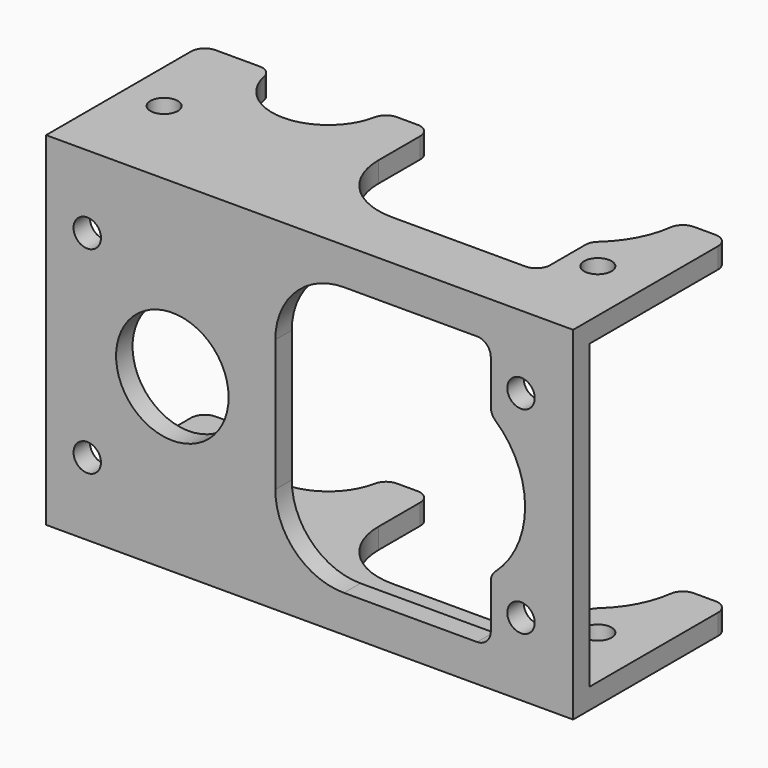
from build123d import *

# Parameters (mm, degrees)
F0_W     = 38.4
F0_H     = 28.4
F0_R     = 1
F0_R_2   = 4.1
F1_DEPTH = 1.5
F2_W     = 38.4
F2_H     = 1.5
F3_DEPTH = 22
F6_W     = 38.4
F6_H     = 14.2
F7_DEPTH = 25.001
F8_R     = 4.1
F8_R_2   = 1
F9_DEPTH = 1.5
F10_R    = 1


with BuildPart() as f1:
    # F0 (on Top) → F1 (new body)
    with BuildSketch(Plane.XY):
        Rectangle(F0_W, F0_H)
        with Locations((-16.2, -7.2)):
            Circle(F0_R, mode=Mode.SUBTRACT)
        with Locations((15.4, -7.2)):
            Circle(F0_R, mode=Mode.SUBTRACT)
        with Locations((-10, 0)):
            Circle(F0_R_2, mode=Mode.SUBTRACT)
        with Locations((-16.2, 7.2)):
            Circle(F0_R, mode=Mode.SUBTRACT)
        with BuildLine():
            ThreePointArc((-2.5, 4.8), (-1.0355339059, 8.3355339059), (2.5, 9.8))
            Line((2.5, 9.8), (12.2, 9.8))
            ThreePointArc((12.2, 9.8), (12.9071067812, 9.5071067812), (13.2, 8.8))
            Line((13.2, 8.8), (13.2, 5.5901699437))
            ThreePointArc((13.2, 5.5901699437), (13.2871290708, 5.1819216533), (13.5333333333, 4.8448139512))
            ThreePointArc((13.5333333333, 4.8448139512), (15.7, 0), (13.5333333333, -4.8448139512))
            ThreePointArc((13.5333333333, -4.8448139512), (13.2871290708, -5.1819216533), (13.2, -5.5901699437))
            Line((13.2, -5.5901699437), (13.2, -8.8))
            ThreePointArc((13.2, -8.8), (12.9071067812, -9.5071067812), (12.2, -9.8))
            Line((12.2, -9.8), (2.5, -9.8))
            ThreePointArc((2.5, -9.8), (-1.0355339059, -8.3355339059), (-2.5, -4.8))
            Line((-2.5, -4.8), (-2.5, 4.8))
        make_face(mode=Mode.SUBTRACT)
        with Locations((15.4, 7.2)):
            Circle(F0_R, mode=Mode.SUBTRACT)
    extrude(amount=F1_DEPTH)

    # F2 (on face) → F3 (join)
    with BuildSketch(Plane(origin=(0, 0, 0), x_dir=(1, 0, 0), z_dir=(0, 0, -1))):
        with Locations((0, 13.45)):
            Rectangle(F2_W, F2_H)
    extrude(amount=F3_DEPTH)

    # F5: F1 across plane


with BuildPart() as f1_1:
    add(f1.part)
    add(f1.part.mirror(Plane.XY.offset(-11)))

    # F6 (on face) → F7 (cut, through all)
    with BuildSketch(Plane(origin=(0, 0, -23.5), x_dir=(1, 0, 0), z_dir=(0, 0, -1))):
        with Locations((0, -7.1)):
            Rectangle(F6_W, F6_H)
    extrude(amount=-F7_DEPTH, mode=Mode.SUBTRACT)

    # F8 (on face) → F9 (cut, through all)
    with BuildSketch(Plane.XZ.offset(14.2)):
        with Locations((-10, -11)):
            Circle(F8_R)
        with Locations((-16.2, -3.8)):
            Circle(F8_R_2)
        with Locations((15.4, -3.8)):
            Circle(F8_R_2)
        with BuildLine():
            Line((12.2, -1.2), (2.5, -1.2))
            ThreePointArc((2.5, -1.2), (-1.0355339059, -2.6644660941), (-2.5, -6.2))
            Line((-2.5, -6.2), (-2.5, -15.8))
            ThreePointArc((-2.5, -15.8), (-1.0355339059, -19.3355339059), (2.5, -20.8))
            Line((2.5, -20.8), (12.2, -20.8))
            ThreePointArc((12.2, -20.8), (12.9071067812, -20.5071067812), (13.2, -19.8))
            Line((13.2, -19.8), (13.2, -16.5901699437))
            ThreePointArc((13.2, -16.5901699437), (13.2871290708, -16.1819216533), (13.5333333333, -15.8448139512))
            ThreePointArc((13.5333333333, -15.8448139512), (15.7, -11), (13.5333333333, -6.1551860488))
            ThreePointArc((13.5333333333, -6.1551860488), (13.2871290708, -5.8180783467), (13.2, -5.4098300563))
            Line((13.2, -5.4098300563), (13.2, -2.2))
            ThreePointArc((13.2, -2.2), (12.9071067812, -1.4928932188), (12.2, -1.2))
        make_face()
        with Locations((-16.2, -18.2)):
            Circle(F8_R_2)
        with Locations((15.4, -18.2)):
            Circle(F8_R_2)
    extrude(amount=-F9_DEPTH, mode=Mode.SUBTRACT)

    # F10
    f10_edges = [f1_1.edges().sort_by_distance(p)[0] for p in [
        (-19.2, 0, -22.75),
        (-19.2, 0, 0.75),
        (-5.9, 0, 0.75),
        (-14.1, 0, 0.75),
        (-5.9, 0, -22.75),
        (-14.1, 0, -22.75),
        (-2.5, 0, -22.75),
        (15.7, 0, -22.75),
        (15.7, 0, 0.75),
        (19.2, 0, -22.75),
        (19.2, 0, 0.75),
        (-2.5, 0, 0.75),
    ]]
    fillet(f10_edges, radius=F10_R)


solid = f1_1.part
